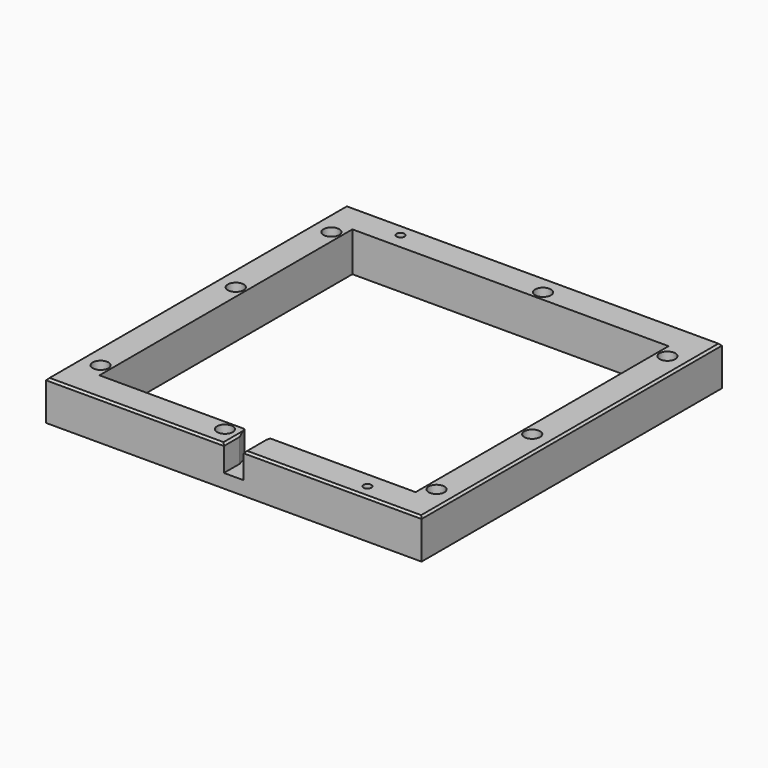
from build123d import *

# Parameters (mm, degrees)
SKETCH_W        = 190
SKETCH_H        = 190
SKETCH_W_2      = 160
SKETCH_H_2      = 160
PAD_DEPTH       = 20
SKETCH001_R     = 1.5
SKETCH001_R_2   = 2
POCKET_DEPTH    = 20.001
SKETCH002_R     = 4
POCKET001_DEPTH = 15
POCKET002_DEPTH = 13
CHAMFER_SIZE    = 1


with BuildPart() as part:
    # Sketch → Pad (new body)
    with BuildSketch(Plane.XY):
        with Locations((95, 95)):
            Rectangle(SKETCH_W, SKETCH_H)
        with Locations((95, 95)):
            Rectangle(SKETCH_W_2, SKETCH_H_2, mode=Mode.SUBTRACT)
    extrude(amount=-PAD_DEPTH)

    # Sketch001 → Pocket (cut, through all)
    with BuildSketch(Plane.XY):
        with Locations((10, 22)):
            Circle(SKETCH001_R)
        with Locations((10, 107.5)):
            Circle(SKETCH001_R)
        with Locations((10, 168)):
            Circle(SKETCH001_R)
        with Locations((107.5, 180)):
            Circle(SKETCH001_R)
        with Locations((180, 168)):
            Circle(SKETCH001_R)
        with Locations((180, 82.5)):
            Circle(SKETCH001_R)
        with Locations((180, 22)):
            Circle(SKETCH001_R)
        with Locations((82.5, 10)):
            Circle(SKETCH001_R)
        with Locations((33, 183)):
            Circle(SKETCH001_R_2)
        with Locations((157, 7)):
            Circle(SKETCH001_R_2)
    extrude(amount=-POCKET_DEPTH, mode=Mode.SUBTRACT)

    # Sketch002 → Pocket001 (cut)
    with BuildSketch(Plane.XY):
        with Locations((107.5, 180)):
            Circle(SKETCH002_R)
        with Locations((180, 168)):
            Circle(SKETCH002_R)
        with Locations((10, 168)):
            Circle(SKETCH002_R)
        with Locations((10, 107.5)):
            Circle(SKETCH002_R)
        with Locations((10, 22)):
            Circle(SKETCH002_R)
        with Locations((82.5, 10)):
            Circle(SKETCH002_R)
        with Locations((180, 22)):
            Circle(SKETCH002_R)
        with Locations((180, 82.5)):
            Circle(SKETCH002_R)
    extrude(amount=-POCKET001_DEPTH, mode=Mode.SUBTRACT)

    # Sketch003 → Pocket002 (cut)
    with BuildSketch(Plane.XY):
        Polygon((90, 0), (100, 0), (100, 10), (101.5, 15), (88.5, 15), (90, 10), align=None)
    extrude(amount=-POCKET002_DEPTH, mode=Mode.SUBTRACT)

    # Chamfer
    chamfer_edges = [part.edges().sort_by_distance(p)[0] for p in [
        (0, 95, 0),
        (45, 0, 0),
        (145, 0, 0),
        (190, 95, 0),
        (95, 190, 0),
        (100, 5, 0),
        (90, 5, 0),
    ]]
    chamfer(chamfer_edges, length=CHAMFER_SIZE)


solid = part.part
